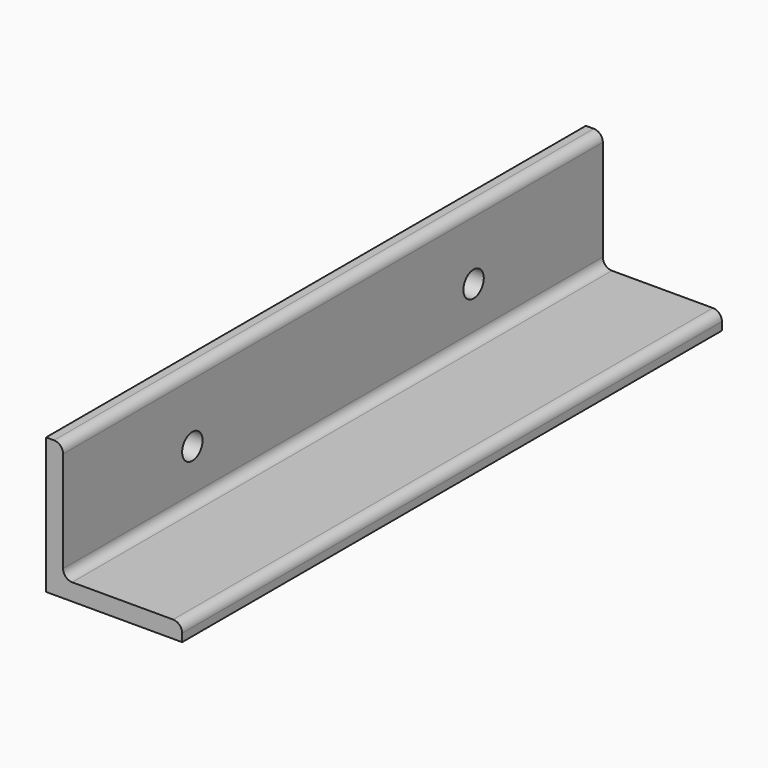
from build123d import *

# Parameters (mm, degrees)
F1_DEPTH = 188.9125
F2_R     = 5.08
F3_R     = 7.14375
F4_DEPTH = 25.4


with BuildPart() as f1:
    # F0 (on Front) → F1 (new body, symmetric)
    with BuildSketch(Plane.XZ):
        Polygon((-38.1, -38.1), (38.1, -38.1), (38.1, -28.575), (-28.575, -28.575), (-28.575, 38.1), (-38.1, 38.1), align=None)
    extrude(amount=F1_DEPTH, both=True)

    # F2
    f2_edges = [f1.edges().sort_by_distance(p)[0] for p in [
        (-28.575, 0, 38.1),
        (-28.575, 0, -28.575),
        (38.1, 0, -28.575),
    ]]
    fillet(f2_edges, radius=F2_R)

    # F3 (on face) → F4 (cut)
    with BuildSketch(Plane(origin=(-38.1, 0, 0), x_dir=(0, -1, 0), z_dir=(-1, 0, 0))):
        with Locations((-98.425, 0)):
            Circle(F3_R)
        with Locations((98.425, 0)):
            Circle(F3_R)
    extrude(amount=-F4_DEPTH, mode=Mode.SUBTRACT)


solid = f1.part
